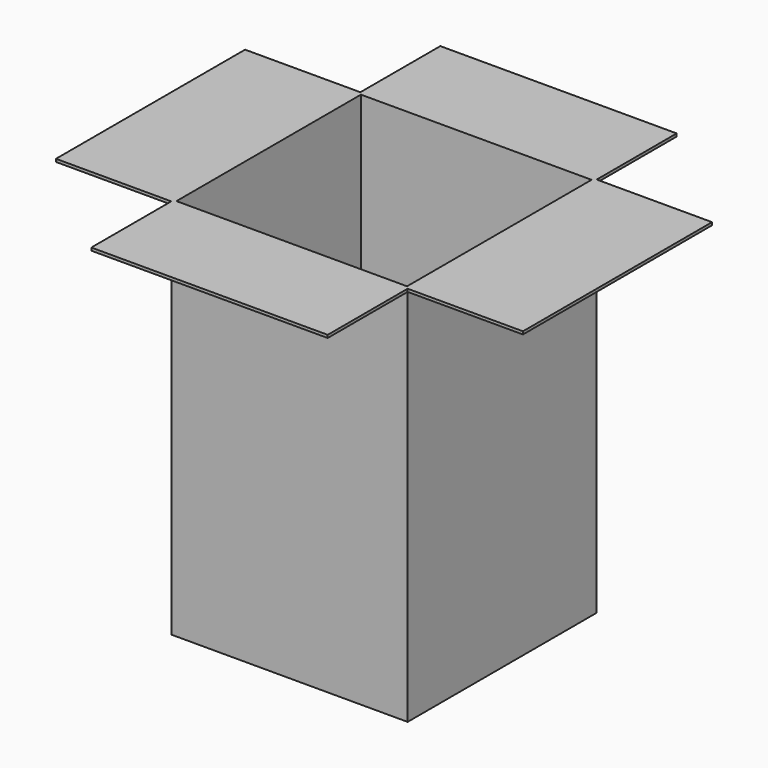
from build123d import *

# Parameters (mm, degrees)
F0_W     = 390.525
F0_H     = 390.525
F0_W_2   = 381
F0_H_2   = 381
F1_DEPTH = 625.475
F2_DEPTH = 4.6355
F4_W     = 381
F4_H     = 381
F5_DEPTH = 4.6355


with BuildPart() as f1:
    # F0 (on Top) → F1 (new body)
    with BuildSketch(Plane.XY):
        with Locations((195.2625, 195.2625)):
            Rectangle(F0_W, F0_H)
        with Locations((195.2625, 195.2625)):
            Rectangle(F0_W_2, F0_H_2, mode=Mode.SUBTRACT)
    extrude(amount=F1_DEPTH)

    # F0 (on Top) → F2 (join)
    with BuildSketch(Plane.XY):
        with Locations((195.2625, 195.2625)):
            Rectangle(F0_W_2, F0_H_2)
    extrude(amount=F2_DEPTH)

    # F4 (on plane+point) → F5 (join)
    with BuildSketch(Plane.XY.offset(625.475)):
        Polygon((-190.5, 0), (0, 0), (0, -165.1), (390.525, -165.1), (390.525, 0), (581.025, 0), (581.025, 390.525), (390.525, 390.525), (390.525, 555.625), (0, 555.625), (0, 390.525), (-190.5, 390.525), align=None)
        with Locations((195.2625, 195.2625)):
            Rectangle(F4_W, F4_H, mode=Mode.SUBTRACT)
    extrude(amount=F5_DEPTH)


solid = f1.part
